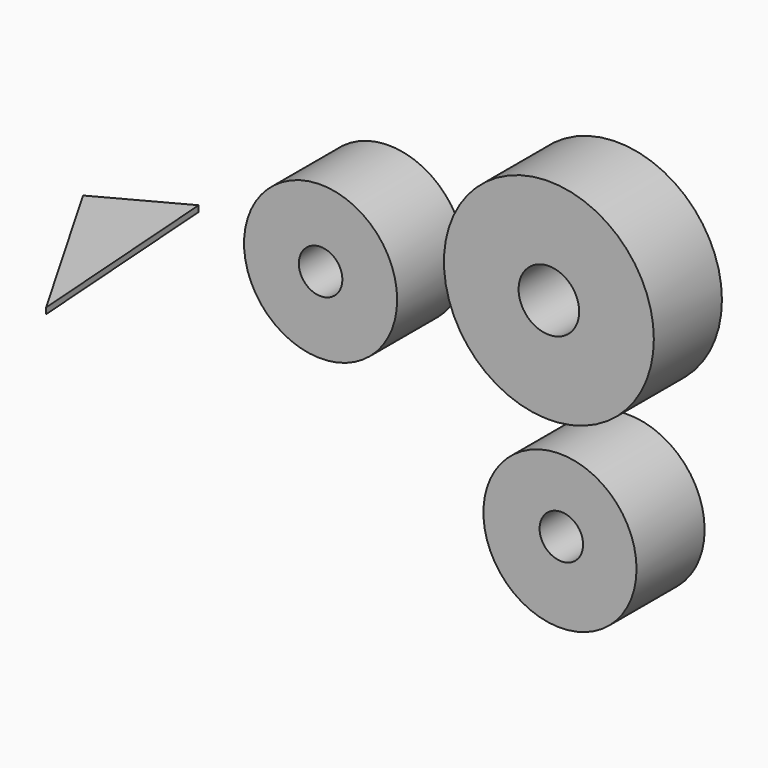
from build123d import *

# Parameters (mm, degrees)
F1_DEPTH = 1.778
F2_R     = 22.850735
F2_R_2   = 6.496257
F2_R_3   = 31.322639
F2_R_4   = 9.041289
F3_DEPTH = 25.4


with BuildPart() as f1:
    # F0 (on Top) → F1 (new body)
    with BuildSketch(Plane.XY):
        Polygon((-126.00565, 2.252445), (-97.411394, -47.274262), (-101.8859, 15.247904), align=None)
    extrude(amount=F1_DEPTH)


with BuildPart() as f3:
    # F2 (on Front) → F3 (new body)
    with BuildSketch(Plane.XZ):
        with Locations((-32.979563, 23.297293)):
            Circle(F2_R)
        with Locations((-32.979563, 23.297293)):
            Circle(F2_R_2, mode=Mode.SUBTRACT)
        with Locations((35.158232, 37.857078)):
            Circle(F2_R_3)
        with Locations((35.158232, 37.857078)):
            Circle(F2_R_4, mode=Mode.SUBTRACT)
        with Locations((38.465336, -24.204735)):
            Circle(F2_R)
        with Locations((38.87425, -22.998149)):
            Circle(F2_R_2, mode=Mode.SUBTRACT)
    extrude(amount=F3_DEPTH)


solid = Compound([f1.part, f3.part])
